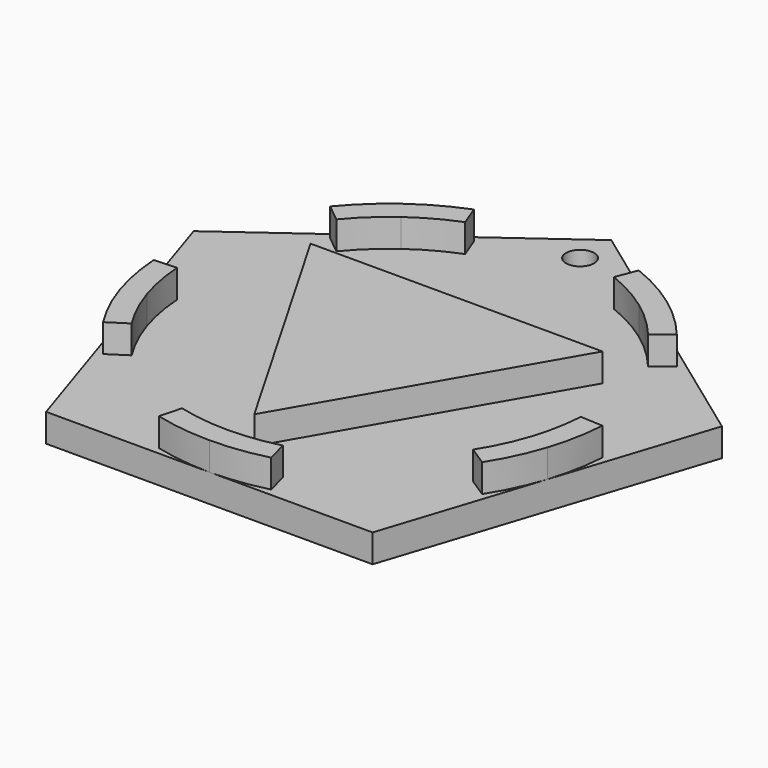
from build123d import *

# Parameters (mm, degrees)
F1_DEPTH = 1.5875
F3_DEPTH = 1.5875
F4_R     = 0.79375
F5_DEPTH = 25.4


with BuildPart() as f1:
    # F0 (on Top) → F1 (new body)
    with BuildSketch(Plane.XY):
        Polygon((-14.929745, 4.850968), (-9.22709, -12.7), (9.22709, -12.7), (14.929745, 4.850968), (0, 15.698063), align=None)
    extrude(amount=F1_DEPTH)

    # F2 (on face) → F3 (join)
    with BuildSketch(Plane.XY.offset(1.5875)):
        with BuildLine():
            Line((-11.407689, -0.713822), (-12.676007, -0.780292))
            ThreePointArc((-12.676007, -0.780292), (-12.476655, -2.371304), (-12.078418, -3.924516))
            Line((-12.078418, -3.924516), (-10.870576, -3.532064))
            ThreePointArc((-10.870576, -3.532064), (-11.227907, -2.139862), (-11.407689, -0.713822))
        make_face()
        with BuildLine():
            Line((-10.870576, -3.532064), (-12.078418, -3.924516))
            ThreePointArc((-12.078418, -3.924516), (-11.487643, -5.415169), (-10.713749, -6.819501))
            Line((-10.713749, -6.819501), (-9.648588, -6.127777))
            ThreePointArc((-9.648588, -6.127777), (-10.341347, -4.868413), (-10.870576, -3.532064))
        make_face()
        with BuildLine():
            ThreePointArc((-4.659203, 11.814475), (-6.110742, 11.133231), (-7.464873, 10.274516))
            Line((-7.464873, 10.274516), (-6.718385, 9.247064))
            ThreePointArc((-6.718385, 9.247064), (-5.504744, 10.01712), (-4.204055, 10.628773))
            Line((-4.204055, 10.628773), (-4.659203, 11.814475))
        make_face()
        with BuildLine():
            Line((-6.718385, 9.247064), (-7.464873, 10.274516))
            ThreePointArc((-7.464873, 10.274516), (-8.700008, 9.252019), (-9.796461, 8.082039))
            Line((-9.796461, 8.082039), (-8.80944, 7.282765))
            ThreePointArc((-8.80944, 7.282765), (-7.825788, 8.330783), (-6.718385, 9.247064))
        make_face()
        with BuildLine():
            ThreePointArc((-3.175, -12.296722), (-1.600255, -12.598777), (0, -12.7))
            Line((0, -12.7), (0, -11.43))
            ThreePointArc((0, -11.43), (-1.434484, -11.339628), (-2.846285, -11.06994))
            Line((-2.846285, -11.06994), (-3.175, -12.296722))
        make_face()
        with BuildLine():
            Line((0, -11.43), (0, -12.7))
            ThreePointArc((0, -12.7), (1.600255, -12.598777), (3.175, -12.296722))
            Line((3.175, -12.296722), (2.846285, -11.06994))
            ThreePointArc((2.846285, -11.06994), (1.434484, -11.339628), (0, -11.43))
        make_face()
        with BuildLine():
            ThreePointArc((10.713749, -6.819501), (11.487643, -5.415169), (12.078418, -3.924516))
            Line((12.078418, -3.924516), (10.870576, -3.532064))
            ThreePointArc((10.870576, -3.532064), (10.341347, -4.868413), (9.648588, -6.127777))
            Line((9.648588, -6.127777), (10.713749, -6.819501))
        make_face()
        with BuildLine():
            Line((10.870576, -3.532064), (12.078418, -3.924516))
            ThreePointArc((12.078418, -3.924516), (12.476655, -2.371304), (12.676007, -0.780292))
            Line((12.676007, -0.780292), (11.407689, -0.713822))
            ThreePointArc((11.407689, -0.713822), (11.227907, -2.139862), (10.870576, -3.532064))
        make_face()
        with BuildLine():
            ThreePointArc((9.796461, 8.082039), (8.700008, 9.252019), (7.464873, 10.274516))
            Line((7.464873, 10.274516), (6.718385, 9.247064))
            ThreePointArc((6.718385, 9.247064), (7.825788, 8.330783), (8.80944, 7.282765))
            Line((8.80944, 7.282765), (9.796461, 8.082039))
        make_face()
        with BuildLine():
            Line((6.718385, 9.247064), (7.464873, 10.274516))
            ThreePointArc((7.464873, 10.274516), (6.110742, 11.133231), (4.659203, 11.814475))
            Line((4.659203, 11.814475), (4.204055, 10.628773))
            ThreePointArc((4.204055, 10.628773), (5.504744, 10.01712), (6.718385, 9.247064))
        make_face()
        Polygon((8.248892, 4.7625), (-8.248892, 4.7625), (0, -9.525), align=None)
    extrude(amount=F3_DEPTH)

    # F4 (on face) → F5 (cut)
    with BuildSketch(Plane.XY.offset(1.5875)):
        with Locations((0, 13.49375)):
            Circle(F4_R)
    extrude(amount=-F5_DEPTH, mode=Mode.SUBTRACT)


solid = f1.part
